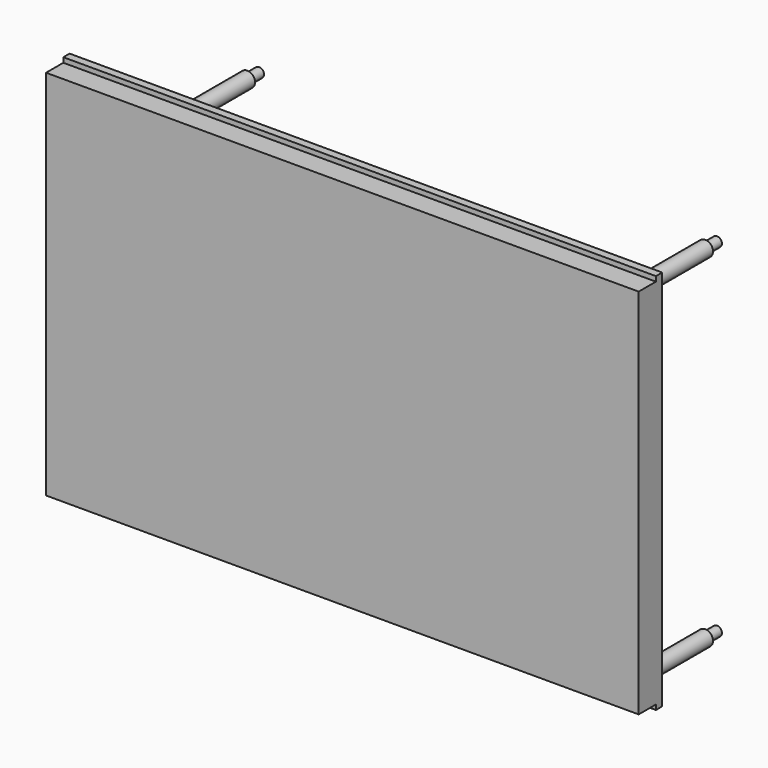
from build123d import *

# Parameters (mm, degrees)
F0_W      = 121
F0_H      = 76
F1_DEPTH  = 6
F2_W      = 121
F2_H      = 78
F3_DEPTH  = 1.6
F4_R      = 1
F5_DEPTH  = 2
F6_W      = 3.5
F6_H      = 9
F7_DEPTH  = 3.5
F8_R      = 1.575
F9_DEPTH  = 16
F10_R     = 1
F11_DEPTH = 19


with BuildPart() as f1:
    # F0 (on Front) → F1 (new body)
    with BuildSketch(Plane.XZ):
        Rectangle(F0_W, F0_H)
    extrude(amount=F1_DEPTH)

    # F2 (on Front) → F3 (join)
    with BuildSketch(Plane.XZ):
        Rectangle(F2_W, F2_H)
    extrude(amount=F3_DEPTH)

    # F4 (on face) → F5 (join)
    with BuildSketch(Plane(origin=(0, 0, 0), x_dir=(-1, 0, 0), z_dir=(0, 1, 0))):
        with Locations((-56.5, 35.5)):
            Circle(F4_R)
        with Locations((-56.5, -34.5)):
            Circle(F4_R)
        with Locations((37, -34.5)):
            Circle(F4_R)
        with Locations((37, 35.5)):
            Circle(F4_R)
    extrude(amount=F5_DEPTH)

    # F6 (on face) → F7 (join)
    with BuildSketch(Plane(origin=(0, 0, 0), x_dir=(-1, 0, 0), z_dir=(0, 1, 0))):
        with Locations((-55.75, -24.5)):
            Rectangle(F6_W, F6_H)
    extrude(amount=F7_DEPTH)

    # F8 (on face) → F9 (join)
    with BuildSketch(Plane(origin=(0, 0, 0), x_dir=(-1, 0, 0), z_dir=(0, 1, 0))):
        with Locations((-56.5, 35.5)):
            Circle(F8_R)
        with Locations((37, 35.5)):
            Circle(F8_R)
        with Locations((-56.5, -34.5)):
            Circle(F8_R)
        with Locations((37, -34.5)):
            Circle(F8_R)
    extrude(amount=F9_DEPTH)

    # F10 (on face) → F11 (join)
    with BuildSketch(Plane(origin=(0, 0, 0), x_dir=(-1, 0, 0), z_dir=(0, 1, 0))):
        with Locations((37, 35.5)):
            Circle(F10_R)
        with Locations((37, -34.5)):
            Circle(F10_R)
        with Locations((-56.5, -34.5)):
            Circle(F10_R)
        with Locations((-56.5, 35.5)):
            Circle(F10_R)
    extrude(amount=F11_DEPTH)


solid = f1.part
